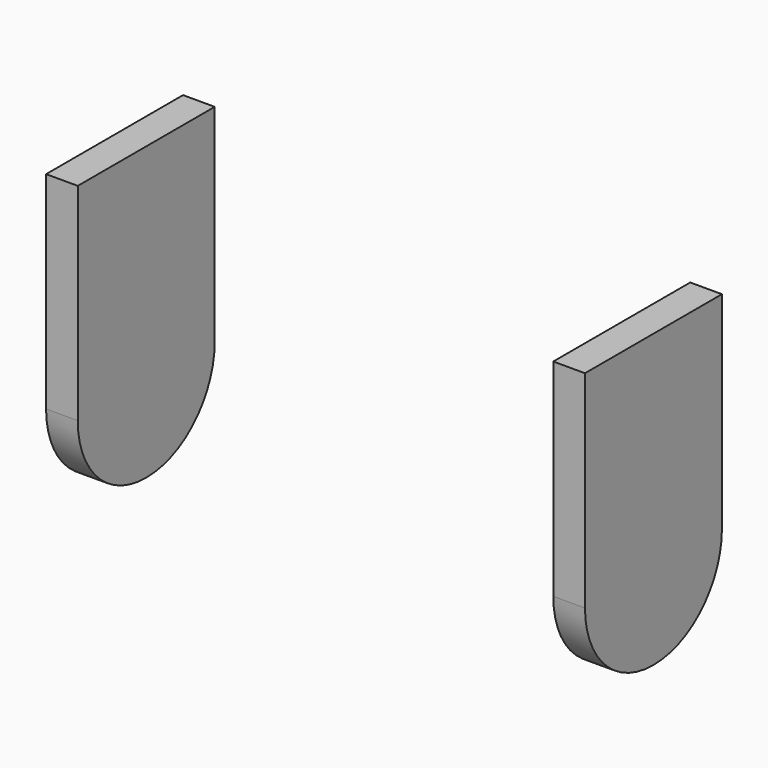
from build123d import *

# Parameters (mm, degrees)
SKETCH068_W      = 2.7
SKETCH068_H      = 0.5
PAD084_DEPTH     = 4.6
FILLET007_R      = 1.34
ARRAY010_X_COUNT = 2
ARRAY010_X_PITCH = 8


with BuildPart() as part:
    # Sketch068 → Pad084 (new body)
    with BuildSketch(Plane(origin=(-6.45, -5.85, -35.3), x_dir=(0, 1, 0), z_dir=(0, 0, -1))):
        Rectangle(SKETCH068_W, SKETCH068_H)
    extrude(amount=PAD084_DEPTH)

    # Fillet007
    fillet007_edges = [part.edges().sort_by_distance(p)[0] for p in [
        (-6.45, -4.5, -39.9),
        (-6.45, -7.2, -39.9),
    ]]
    fillet(fillet007_edges, radius=FILLET007_R)

    # Array010 X: part ×2


with BuildPart() as part_1:
    add(part.part)
    with Locations(*[(i * ARRAY010_X_PITCH, 0, 0) for i in range(1, ARRAY010_X_COUNT)]):
        add(part.part)


solid = part_1.part
